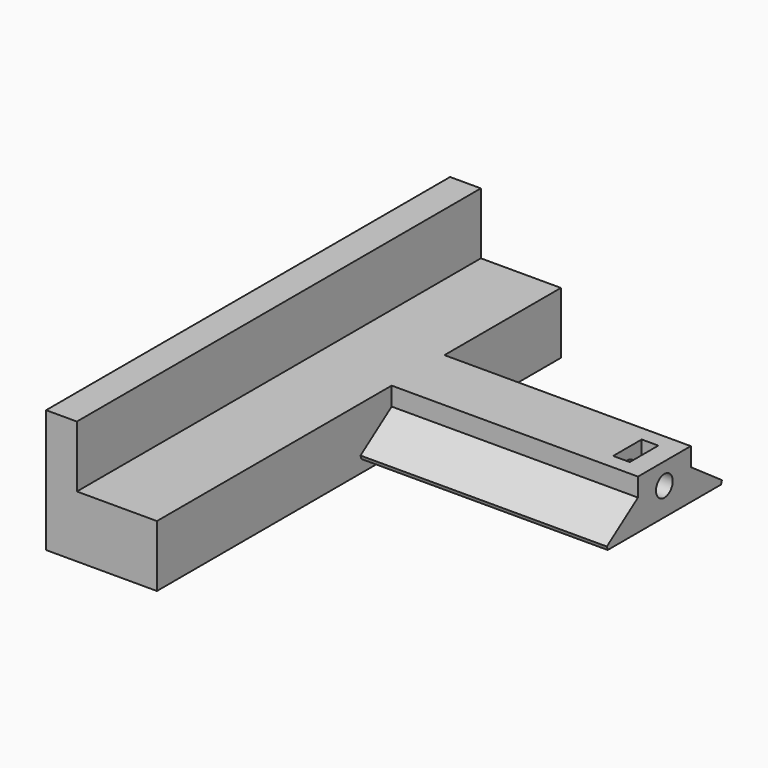
from build123d import *

# Parameters (mm, degrees)
PAD007_DEPTH               = 2.7
CYLINDER1015_R             = 1.7
CYLINDER1015_DEPTH         = 100
CLONE008_PITCH_ANGLE       = 90
PAD006_DEPTH               = 82
PAD009_DEPTH               = 40
CHAMFER011_SIZE            = 1
CHAMFER011_PLACEMENT_ANGLE = 180


with BuildPart() as clone_of_m3nuthousingmaster:
    # Sketch008 → Pad007 (new body)
    with BuildSketch(Plane(origin=(65, 30, 1.5), x_dir=(0, 0, 1), z_dir=(-1, 0, 0))):
        Polygon((0, 0), (1.674316, 2.9), (21.674316, 2.9), (21.674316, -2.9), (1.674316, -2.9), align=None)
    extrude(amount=PAD007_DEPTH)


with BuildPart() as clone_of_m3nuthousingmaster_1:
    # Clone009 placement: moved
    add(clone_of_m3nuthousingmaster.part.moved(Location((-117, -0.99996, 1.5))))


with BuildPart() as fusion021:
    # Cylinder1015 → Cylinder1015 (new body)
    with BuildSketch(Plane.XY):
        Circle(CYLINDER1015_R)
    extrude(amount=CYLINDER1015_DEPTH)


with BuildPart() as fusion021_1:
    # Clone008 pitch: moved
    add(fusion021.part.rotate(Axis((0, 0, 0), (0, 1, 0)), CLONE008_PITCH_ANGLE))


with BuildPart() as fusion021_2:
    # Clone008 placement: moved
    add(fusion021_1.part.moved(Location((-58, 29, 6.5))))

    # Fusion021: union Clone of M3NutHousingMaster
    add(clone_of_m3nuthousingmaster_1.part)


with BuildPart() as pad006:
    # Sketch007 → Pad006 (new body)
    with BuildSketch(Plane(origin=(0, 0, 0), x_dir=(-1, 0, 0), z_dir=(0, 1, 0))):
        Polygon((0, 0), (0, 20), (5, 20), (5, 10), (18, 10), (18, 0), align=None)
    extrude(amount=PAD006_DEPTH)


with BuildPart() as clone_of_lateraladjust:
    # Sketch010 → Pad009 (new body)
    with BuildSketch(Plane(origin=(-18, 29, 2), x_dir=(0, 1, 0), z_dir=(1, 0, 0))):
        Polygon((-12.5, 0), (-5.35926, 5), (-5.35926, 8), (5.35926, 8), (5.35926, 5), (12.5, 0), align=None)
    extrude(amount=-PAD009_DEPTH)

    # Fusion034: union Pad006
    add(pad006.part)

    # Cut025: cut Fusion021
    add(fusion021_2.part, mode=Mode.SUBTRACT)

    # Chamfer011
    chamfer011_edges = [clone_of_lateraladjust.edges().sort_by_distance(p)[0] for p in [
        (-38, 16.5, 2),
        (-38, 41.5, 2),
    ]]
    chamfer(chamfer011_edges, length=CHAMFER011_SIZE)


with BuildPart() as clone_of_lateraladjust_1:
    # Chamfer011 placement: moved
    add(clone_of_lateraladjust.part.moved(Location((-37.7, 79, 44))).rotate(Axis((-37.7, 79, 44), (0, 0, 1)), CHAMFER011_PLACEMENT_ANGLE))


with BuildPart() as clone_of_lateraladjust_2:
    # Clone088 placement: moved
    add(clone_of_lateraladjust_1.part.moved(Location((0, -43, -2.2))))


solid = clone_of_lateraladjust_2.part
